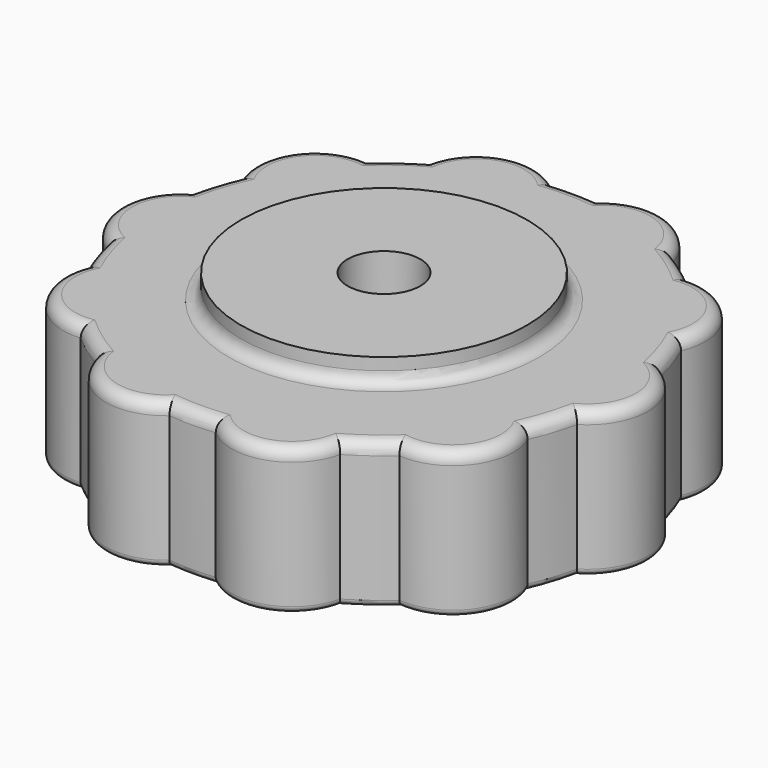
from build123d import *

# Parameters (mm, degrees)
F0_R     = 5.9
F0_R_2   = 1.5
F1_DEPTH = 6
F2_DEPTH = 7
F3_DEPTH = 7
F5_START = -2
F4_R     = 1.5
F5_DEPTH = 3
F6_R     = 0.5
F7_R     = 0.25


with BuildPart() as f1:
    # F0 (on Top) → F1 (new body)
    with BuildSketch(Plane.XY):
        with BuildLine():
            ThreePointArc((-0.6962339846, 3.9587541561), (-1.0348069468, 3.0655546072), (-1.2859051888, 2.1439327987))
            ThreePointArc((-1.2859051888, 2.1439327987), (-2.5, 0), (-1.2859051888, -2.1439327987))
            ThreePointArc((-1.2859051888, -2.1439327987), (-1.0348069468, -3.0655546072), (-0.6962339846, -3.9587541561))
            ThreePointArc((-0.6962339846, -3.9587541561), (-0.4182852387, -6.40685925), (1.8241101773, -7.427710294))
            ThreePointArc((1.8241101773, -7.427710294), (2.5689686296, -8.0257261559), (3.367889432, -8.5493315764))
            ThreePointArc((3.367889432, -8.5493315764), (5.0317147613, -10.3665160276), (7.4458919495, -9.8743549156))
            ThreePointArc((7.4458919495, -9.8743549156), (8.4, -9.9203430975), (9.3541080505, -9.8743549156))
            ThreePointArc((9.3541080505, -9.8743549156), (11.7682852387, -10.3665160276), (13.432110568, -8.5493315764))
            ThreePointArc((13.432110568, -8.5493315764), (14.2310313704, -8.0257261559), (14.9758898227, -7.427710294))
            ThreePointArc((14.9758898227, -7.427710294), (17.2182852387, -6.40685925), (17.4962339846, -3.9587541561))
            ThreePointArc((17.4962339846, -3.9587541561), (17.8348069468, -3.0655546072), (18.0859051888, -2.1439327987))
            ThreePointArc((18.0859051888, -2.1439327987), (19.3, 0), (18.0859051888, 2.1439327987))
            ThreePointArc((18.0859051888, 2.1439327987), (17.8348069468, 3.0655546072), (17.4962339846, 3.9587541561))
            ThreePointArc((17.4962339846, 3.9587541561), (17.2182852387, 6.40685925), (14.9758898227, 7.427710294))
            ThreePointArc((14.9758898227, 7.427710294), (14.2310313704, 8.0257261559), (13.432110568, 8.5493315764))
            ThreePointArc((13.432110568, 8.5493315764), (11.7682852387, 10.3665160276), (9.3541080505, 9.8743549156))
            ThreePointArc((9.3541080505, 9.8743549156), (8.4, 9.9203430975), (7.4458919495, 9.8743549156))
            ThreePointArc((7.4458919495, 9.8743549156), (5.0317147613, 10.3665160276), (3.367889432, 8.5493315764))
            ThreePointArc((3.367889432, 8.5493315764), (2.5689686296, 8.0257261559), (1.8241101773, 7.427710294))
            ThreePointArc((1.8241101773, 7.427710294), (-0.4182852387, 6.40685925), (-0.6962339846, 3.9587541561))
        make_face()
        with Locations((8.4, 0)):
            Circle(F0_R, mode=Mode.SUBTRACT)
        with Locations((8.4, 0)):
            Circle(F0_R)
        Polygon((11.5754264805, 0), (9.9877132403, -2.75), (6.8122867597, -2.75), (5.2245735195, 0), (6.8122867597, 2.75), (9.9877132403, 2.75), align=None, mode=Mode.SUBTRACT)
        Polygon((6.8122867597, -2.75), (9.9877132403, -2.75), (11.5754264805, 0), (9.9877132403, 2.75), (6.8122867597, 2.75), (5.2245735195, 0), align=None)
        with Locations((8.4, 0)):
            Circle(F0_R_2, mode=Mode.SUBTRACT)
    extrude(amount=F1_DEPTH)

    # F0 (on Top) → F2 (join)
    with BuildSketch(Plane.XY):
        with Locations((8.4, 0)):
            Circle(F0_R)
        Polygon((11.5754264805, 0), (9.9877132403, -2.75), (6.8122867597, -2.75), (5.2245735195, 0), (6.8122867597, 2.75), (9.9877132403, 2.75), align=None, mode=Mode.SUBTRACT)
    extrude(amount=F2_DEPTH)

    # F0 (on Top) → F3 (join)
    with BuildSketch(Plane.XY):
        Polygon((6.8122867597, -2.75), (9.9877132403, -2.75), (11.5754264805, 0), (9.9877132403, 2.75), (6.8122867597, 2.75), (5.2245735195, 0), align=None)
        with Locations((8.4, 0)):
            Circle(F0_R_2, mode=Mode.SUBTRACT)
    extrude(amount=F3_DEPTH)

    # F4 (on face) → F5 (cut)
    with BuildSketch(Plane.XY.offset(7).offset(F5_START)):
        Polygon((10.0083278178, 2.7857054956), (6.7916721822, 2.7857054956), (5.1833443644, 0), (6.7916721822, -2.7857054956), (10.0083278178, -2.7857054956), (11.6166556356, 0), align=None)
        with Locations((8.4, 0)):
            Circle(F4_R, mode=Mode.SUBTRACT)
    extrude(amount=-F5_DEPTH, mode=Mode.SUBTRACT)

    # F6
    f6_edges = [f1.edges().sort_by_distance(p)[0] for p in [
        (2.568969, 8.025726, 6),
        (5.031715, 10.366516, 6),
        (-0.418285, 6.406859, 6),
        (8.4, 9.920343, 6),
        (-1.034807, 3.065555, 6),
        (11.768285, 10.366516, 6),
        (-2.5, 0, 6),
        (14.231031, 8.025726, 6),
        (-1.034807, -3.065555, 6),
        (17.218285, 6.406859, 6),
        (-0.418285, -6.406859, 6),
        (17.834807, 3.065555, 6),
        (2.568969, -8.025726, 6),
        (19.3, 0, 6),
        (5.031715, -10.366516, 6),
        (17.834807, -3.065555, 6),
        (8.4, -9.920343, 6),
        (17.218285, -6.406859, 6),
        (11.768285, -10.366516, 6),
        (14.231031, -8.025726, 6),
        (2.5, 0, 6),
    ]]
    fillet(f6_edges, radius=F6_R)

    # F7
    f7_edges = [f1.edges().sort_by_distance(p)[0] for p in [
        (2.568969, 8.025726, 0),
        (-0.418285, 6.406859, 0),
        (-1.034807, 3.065555, 0),
        (-2.5, 0, 0),
        (-1.034807, -3.065555, 0),
        (-0.418285, -6.406859, 0),
        (2.568969, -8.025726, 0),
        (5.031715, -10.366516, 0),
        (8.4, -9.920343, 0),
        (11.768285, -10.366516, 0),
        (14.231031, -8.025726, 0),
        (17.218285, -6.406859, 0),
        (17.834807, -3.065555, 0),
        (19.3, 0, 0),
        (17.834807, 3.065555, 0),
        (17.218285, 6.406859, 0),
        (14.231031, 8.025726, 0),
        (11.768285, 10.366516, 0),
        (8.4, 9.920343, 0),
        (5.031715, 10.366516, 0),
        (6.9, 0, 0),
    ]]
    fillet(f7_edges, radius=F7_R)


solid = f1.part
